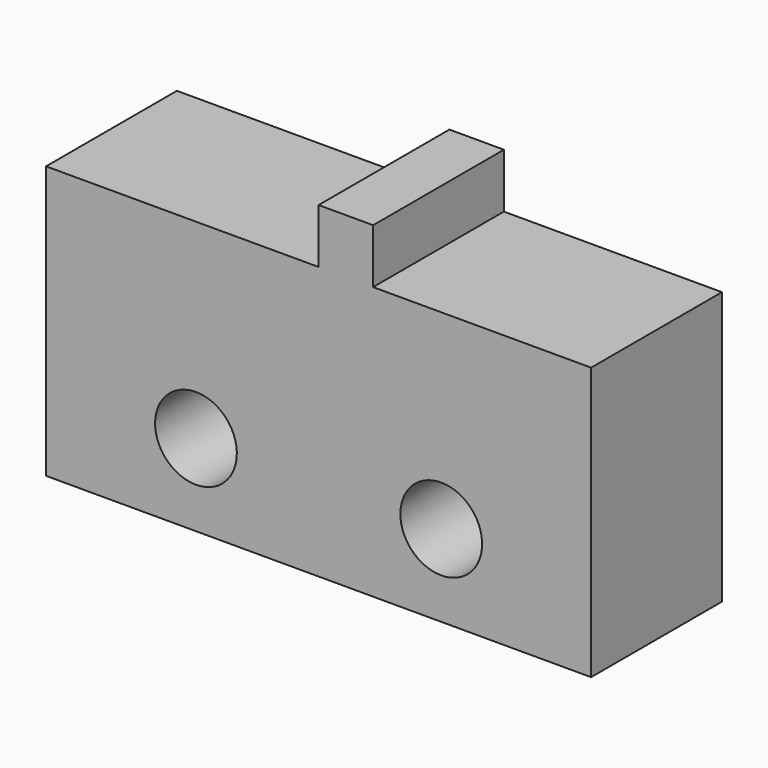
from build123d import *

# Parameters (mm, degrees)
CYLINDER033_R        = 1.5
CYLINDER033_DEPTH    = 10
ARRAY001016_Y_COUNT  = 2
ARRAY001016_Y_PITCH  = 9
BOX016_W             = 6
BOX016_H             = 20
BOX016_DEPTH         = 10
BOX017_W             = 6
BOX017_H             = 2
BOX017_DEPTH         = 2
BODY_PLACEMENT_ANGLE = 90


with BuildPart() as end_stop_hole_array:
    # Cylinder033 → Cylinder033 (new body)
    with BuildSketch(Plane(origin=(-2, 5.5, 3), x_dir=(0, 0, -1), z_dir=(1, 0, 0))):
        Circle(CYLINDER033_R)
    extrude(amount=CYLINDER033_DEPTH)

    # Array001016 Y: end stop hole array ×2


with BuildPart() as end_stop_hole_array_1:
    add(end_stop_hole_array.part)
    with Locations(*[(0, i * ARRAY001016_Y_PITCH, 0) for i in range(1, ARRAY001016_Y_COUNT)]):
        add(end_stop_hole_array.part)


with BuildPart() as end_stop_body_cube:
    # Box016 → Box016 (new body)
    with BuildSketch(Plane.XY):
        with Locations((3, 10)):
            Rectangle(BOX016_W, BOX016_H)
    extrude(amount=BOX016_DEPTH)


with BuildPart() as end_stop_clone:
    # Box017 → Box017 (new body)
    with BuildSketch(Plane(origin=(0, 8, 10), x_dir=(1, 0, 0), z_dir=(0, 0, 1))):
        with Locations((3, 1)):
            Rectangle(BOX017_W, BOX017_H)
    extrude(amount=BOX017_DEPTH)

    # Fusion013: union end stop body cube
    add(end_stop_body_cube.part)

    # Cut013: cut end stop hole array
    add(end_stop_hole_array_1.part, mode=Mode.SUBTRACT)


with BuildPart() as end_stop_clone_1:
    # Body placement: moved
    add(end_stop_clone.part.moved(Location((139, -6, 10))).rotate(Axis((139, -6, 10), (0, 0, 1)), BODY_PLACEMENT_ANGLE))


solid = end_stop_clone_1.part
